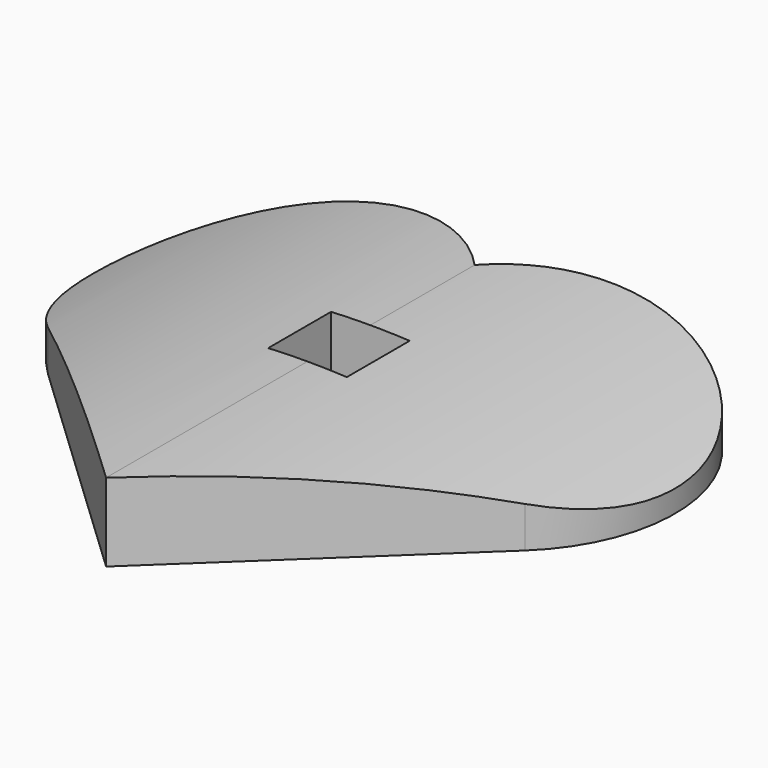
from build123d import *

# Parameters (mm, degrees)
F1_DEPTH = 10
F2_R     = 135.50038
F3_DEPTH = 134
F4_W     = 10.05
F4_H     = 10.05
F5_DEPTH = 12.5


with BuildPart() as f1:
    # F0 (on Top) → F1 (new body)
    with BuildSketch(Plane.XY):
        with BuildLine():
            Line((-30.500877, 28.849207), (0, 0))
            Line((0, 0), (0, 58.898218))
            ThreePointArc((0, 58.898218), (-30.814656, 59.67198), (-30.500877, 28.849207))
        make_face()
        with BuildLine():
            Line((0, 58.898218), (0, 0))
            Line((0, 0), (30.500877, 28.849207))
            ThreePointArc((30.500877, 28.849207), (30.814656, 59.67198), (0, 58.898218))
        make_face()
    extrude(amount=F1_DEPTH)

    # F2 (on Front) → F3 (cut)
    with BuildSketch(Plane.XZ):
        with Locations((0, -90)):
            Circle(F2_R)
        with BuildLine():
            ThreePointArc((0, 10), (70.710678, -19.289322), (100, -90))
            ThreePointArc((100, -90), (-70.710678, -160.710678), (0, 10))
        make_face(mode=Mode.SUBTRACT)
    extrude(amount=-F3_DEPTH, mode=Mode.SUBTRACT)

    # F4 (on Top) → F5 (cut, symmetric)
    with BuildSketch(Plane.XY):
        with Locations((0, 37.200861)):
            Rectangle(F4_W, F4_H)
    extrude(amount=F5_DEPTH, both=True, mode=Mode.SUBTRACT)


solid = f1.part
